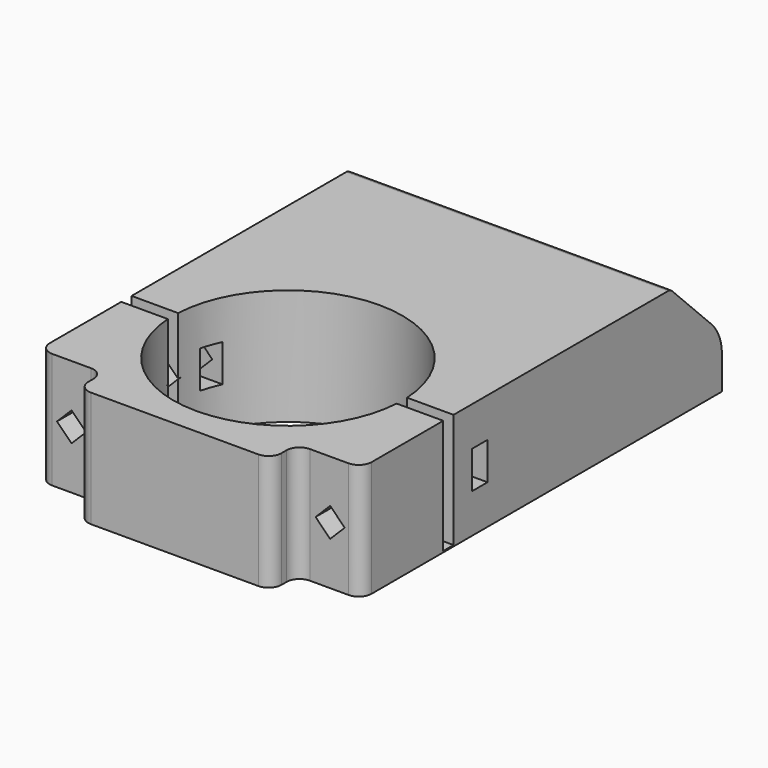
from build123d import *

# Parameters (mm, degrees)
SKETCH_W        = 50
SKETCH_H        = 75
PAD_DEPTH       = 18
SKETCH001_R     = 17.8
POCKET_DEPTH    = 18.001
SKETCH005_W     = 25.040878
SKETCH005_H     = 24.535461
SKETCH005_W_2   = 12.208063
SKETCH005_H_2   = 50.590956
POCKET001_DEPTH = 5
POCKET002_DEPTH = 25
SKETCH003_W     = 3
SKETCH003_H     = 5.8
POCKET003_DEPTH = 50.001
SKETCH004_W     = 72.31723
SKETCH004_H     = 2
POCKET004_DEPTH = 17.8
CHAMFER_SIZE    = 10
FILLET_R        = 7
FILLET001_R     = 1
FILLET002_R     = 2


with BuildPart() as part:
    # Sketch → Pad (new body)
    with BuildSketch(Plane.XY):
        Rectangle(SKETCH_W, SKETCH_H)
    extrude(amount=PAD_DEPTH)

    # Sketch001 → Pocket (cut, through all)
    with BuildSketch(Plane.XY.offset(18)):
        with Locations((0, -15.5)):
            Circle(SKETCH001_R)
    extrude(amount=-POCKET_DEPTH, mode=Mode.SUBTRACT)

    # Sketch005 → Pocket001 (cut)
    with BuildSketch(Plane.XZ.offset(37.5)):
        with Locations((-27.520439, 8.08709)):
            Rectangle(SKETCH005_W, SKETCH005_H)
        with Locations((21.104031, -3.872155)):
            Rectangle(SKETCH005_W_2, SKETCH005_H_2)
    extrude(amount=-POCKET001_DEPTH, mode=Mode.SUBTRACT)

    # Sketch002 → Pocket002 (cut)
    with BuildSketch(Plane.XZ.offset(32.5)):
        Polygon((-22.267329, 9), (-20.004588, 11.262742), (-17.741846, 9), (-20.004588, 6.737258), align=None)
        Polygon((17.895693, 9), (20.158435, 11.262742), (22.421177, 9), (20.158435, 6.737258), align=None)
    extrude(amount=-POCKET002_DEPTH, mode=Mode.SUBTRACT)

    # Sketch003 → Pocket003 (cut, through all)
    with BuildSketch(Plane.YZ.offset(25)):
        with Locations((-9.5, 9)):
            Rectangle(SKETCH003_W, SKETCH003_H)
    extrude(amount=-POCKET003_DEPTH, mode=Mode.SUBTRACT)

    # Sketch004 → Pocket004 (cut)
    with BuildSketch(Plane.XY.offset(18)):
        with Locations((-0.391915, -15.598591)):
            Rectangle(SKETCH004_W, SKETCH004_H)
    extrude(amount=-POCKET004_DEPTH, mode=Mode.SUBTRACT)

    # Chamfer
    chamfer_edges = [part.edges().sort_by_distance(p)[0] for p in [
        (0, 37.5, 18),
    ]]
    chamfer(chamfer_edges, length=CHAMFER_SIZE)

    # Fillet
    fillet_edges = [part.edges().sort_by_distance(p)[0] for p in [
        (0, 37.5, 8),
    ]]
    fillet(fillet_edges, radius=FILLET_R)

    # Fillet001
    fillet001_edges = [part.edges().sort_by_distance(p)[0] for p in [
        (0, 27.5, 18),
    ]]
    fillet(fillet001_edges, radius=FILLET001_R)

    # Fillet002
    fillet002_edges = [part.edges().sort_by_distance(p)[0] for p in [
        (15, -32.5, 9),
        (25, -32.5, 9),
        (15, -37.5, 9),
        (-15, -32.5, 9),
        (-15, -37.5, 9),
        (-25, -32.5, 9),
    ]]
    fillet(fillet002_edges, radius=FILLET002_R)


solid = part.part
